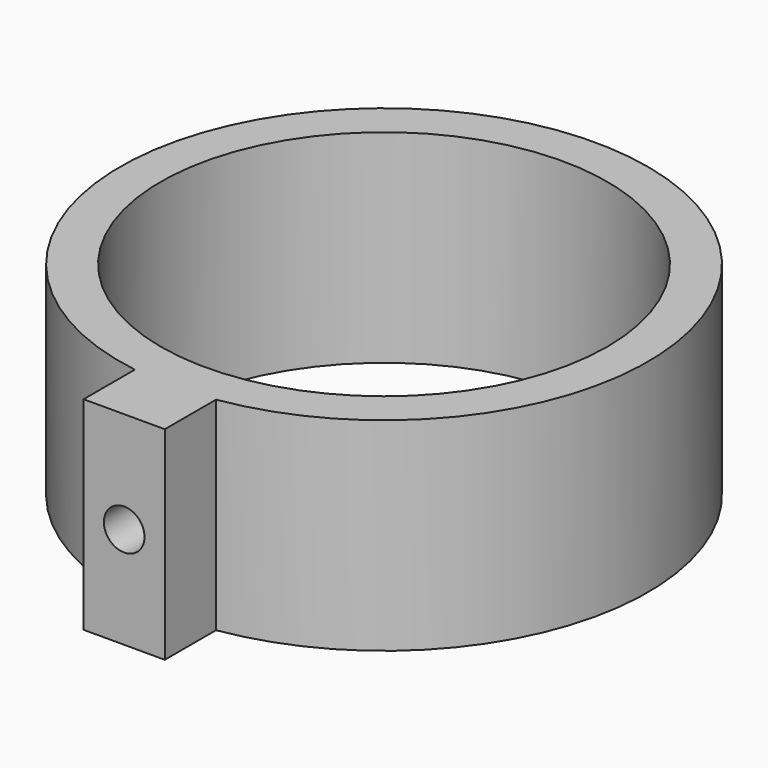
from build123d import *

# Parameters (mm, degrees)
F0_R     = 5.5
F1_DEPTH = 5
F2_R     = 0.5
F3_DEPTH = 5


with BuildPart() as f1:
    # F0 (on Top) → F1 (new body)
    with BuildSketch(Plane.XY):
        with BuildLine():
            Line((1, -8), (1, -6.422616))
            ThreePointArc((1, -6.422616), (0, 6.5), (-1, -6.422616))
            Line((-1, -6.422616), (-1, -8))
            Line((-1, -8), (1, -8))
        make_face()
        Circle(F0_R, mode=Mode.SUBTRACT)
    extrude(amount=F1_DEPTH)

    # F2 (on face) → F3 (cut)
    with BuildSketch(Plane.XZ.offset(8)):
        with Locations((0, 2.5)):
            Circle(F2_R)
    extrude(amount=-F3_DEPTH, mode=Mode.SUBTRACT)


solid = f1.part
